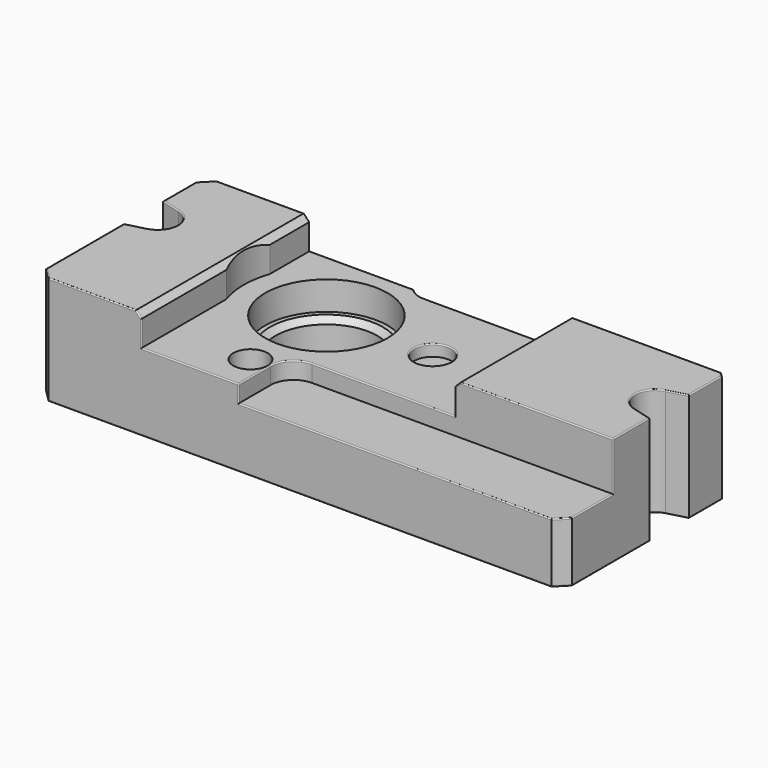
from build123d import *

# Parameters (mm, degrees)
F0_R     = 8.9
F3_DEPTH = 13.5
F0_W     = 27.7
F0_H     = 11
F0_H_2   = 1.2
F4_DEPTH = 10.5
F2_R     = 10.7
F5_DEPTH = 5
F2_R_2   = 3.25
F6_DEPTH = 2
F2_R_3   = 3
F7_DEPTH = 6
F8_DEPTH = 5.5
F9_SIZE  = 1
F10_SIZE = 2
F11_R    = 0.2


with BuildPart() as f3:
    # F0 (on Top) → F3 (new body)
    with BuildSketch(Plane.XY):
        with BuildLine():
            Line((0, 19.0066603875), (0, 0))
            Line((0, 0), (18.3, 0))
            Line((18.3, 0), (18.3, 18.5502631652))
            ThreePointArc((18.3, 18.5502631652), (17.5, 23.3), (18.3, 28.0497368348))
            Line((18.3, 28.0497368348), (18.3, 36.8))
            Line((18.3, 36.8), (0, 36.8))
            Line((0, 36.8), (0, 27.5933396125))
            Line((0, 27.5933396125), (3.4058666579, 26.680740392))
            ThreePointArc((3.4058666579, 26.680740392), (6, 23.3), (3.4058666579, 19.919259608))
            Line((3.4058666579, 19.919259608), (0, 19.0066603875))
        make_face()
        with BuildLine():
            Line((18.3, 18.5502631652), (18.3, 0))
            Line((18.3, 0), (35.3, 0))
            Line((35.3, 0), (35.3, 7))
            ThreePointArc((35.3, 7), (36.4715728753, 9.8284271247), (39.3, 11))
            Line((39.3, 11), (64.3, 11))
            Line((64.3, 11), (64.3, 35.6))
            Line((64.3, 35.6), (39.3, 35.6))
            ThreePointArc((39.3, 35.6), (37.7508066615, 35.9121822171), (36.4434286286, 36.8))
            Line((36.4434286286, 36.8), (18.3, 36.8))
            Line((18.3, 36.8), (18.3, 28.0497368348))
            ThreePointArc((18.3, 28.0497368348), (17.5, 23.3), (18.3, 18.5502631652))
        make_face()
        with Locations((32, 23.3)):
            Circle(F0_R, mode=Mode.SUBTRACT)
        with BuildLine():
            Line((64.3, 35.6), (64.3, 11))
            Line((64.3, 11), (92, 11))
            Line((92, 11), (92, 19.0066603875))
            Line((92, 19.0066603875), (88.5941333421, 19.919259608))
            ThreePointArc((88.5941333421, 19.919259608), (86, 23.3), (88.5941333421, 26.680740392))
            Line((88.5941333421, 26.680740392), (92, 27.5933396125))
            Line((92, 27.5933396125), (92, 35.6))
            Line((92, 35.6), (64.3, 35.6))
        make_face()
    extrude(amount=F3_DEPTH)

    # F0 (on Top) → F4 (join)
    with BuildSketch(Plane.XY):
        with BuildLine():
            Line((35.3, 7), (35.3, 0))
            Line((35.3, 0), (64.3, 0))
            Line((64.3, 0), (64.3, 11))
            Line((64.3, 11), (39.3, 11))
            ThreePointArc((39.3, 11), (36.4715728753, 9.8284271247), (35.3, 7))
        make_face()
        with Locations((78.15, 5.5)):
            Rectangle(F0_W, F0_H)
        with Locations((78.15, 36.2)):
            Rectangle(F0_W, F0_H_2)
        with BuildLine():
            Line((39.3, 35.6), (64.3, 35.6))
            Line((64.3, 35.6), (64.3, 36.8))
            Line((64.3, 36.8), (36.4434286286, 36.8))
            ThreePointArc((36.4434286286, 36.8), (37.7508066615, 35.9121822171), (39.3, 35.6))
        make_face()
    extrude(amount=F4_DEPTH)

    # F2 (on offset) → F5 (cut)
    with BuildSketch(Plane.XY.offset(13.5)):
        with Locations((32, 23.3)):
            Circle(F2_R)
    extrude(amount=-F5_DEPTH, mode=Mode.SUBTRACT)

    # F2 (on offset) → F6 (cut)
    with BuildSketch(Plane.XY.offset(13.5)):
        with Locations((50.6, 23.3)):
            Circle(F2_R_2)
    extrude(amount=-F6_DEPTH, mode=Mode.SUBTRACT)

    # F2 (on offset) → F7 (cut)
    with BuildSketch(Plane.XY.offset(13.5)):
        with Locations((32, 6.7)):
            Circle(F2_R_3)
    extrude(amount=-F7_DEPTH, mode=Mode.SUBTRACT)

    # F2 (on offset) → F8 (join)
    with BuildSketch(Plane.XY.offset(13.5)):
        with BuildLine():
            Line((0, 0), (18.3, 0))
            Line((18.3, 0), (18.3, 18.5502631652))
            ThreePointArc((18.3, 18.5502631652), (17.5, 23.3), (18.3, 28.0497368348))
            Line((18.3, 28.0497368348), (18.3, 36.8))
            Line((18.3, 36.8), (0, 36.8))
            Line((0, 36.8), (0, 27.5933396125))
            Line((0, 27.5933396125), (3.4058666579, 26.680740392))
            ThreePointArc((3.4058666579, 26.680740392), (6, 23.3), (3.4058666579, 19.919259608))
            Line((3.4058666579, 19.919259608), (0, 19.0066603875))
            Line((0, 19.0066603875), (0, 0))
        make_face()
        with BuildLine():
            Line((64.3, 35.6), (64.3, 11))
            Line((64.3, 11), (92, 11))
            Line((92, 11), (92, 19.0066603875))
            Line((92, 19.0066603875), (88.5941333421, 19.919259608))
            ThreePointArc((88.5941333421, 19.919259608), (86, 23.3), (88.5941333421, 26.680740392))
            Line((88.5941333421, 26.680740392), (92, 27.5933396125))
            Line((92, 27.5933396125), (92, 35.6))
            Line((92, 35.6), (64.3, 35.6))
        make_face()
    extrude(amount=F8_DEPTH)

    # F9
    f9_edges = [f3.edges().sort_by_distance(p)[0] for p in [
        (18.3, 9.275132, 19),
        (23.1, 23.3, 8.5),
        (64.3, 23.3, 19),
    ]]
    chamfer(f9_edges, length=F9_SIZE)

    # F10
    f10_edges = [f3.edges().sort_by_distance(p)[0] for p in [
        (92, 0, 5.25),
        (0, 0, 9.5),
        (92, 36.8, 5.25),
        (0, 36.8, 9.5),
    ]]
    chamfer(f10_edges, length=F10_SIZE)

    # F11
    f11_edges = [f3.edges().sort_by_distance(p)[0] for p in [
        (47.35, 23.3, 13.5),
        (35.3, 3.5, 13.5),
        (64.3, 11, 15.75),
        (64.8, 11, 18.5),
        (78.65, 11, 19),
        (92, 11, 14.75),
        (92, 6.5, 10.5),
        (91, 1, 10.5),
        (62.65, 0, 10.5),
        (35.3, 0, 12),
        (26.8, 0, 13.5),
        (18.3, 0, 15.75),
        (17.8, 0, 18.5),
        (9.65, 0, 19),
        (1, 1, 19),
        (0, 10.50333, 19),
        (1.702933, 19.46296, 19),
        (6, 23.3, 19),
        (0, 31.19667, 19),
        (1, 35.8, 19),
        (9.65, 36.8, 19),
        (17.8, 36.8, 18.5),
        (18.3, 36.8, 15.75),
        (27.371714, 36.8, 13.5),
        (92, 15.00333, 19),
        (90.297067, 19.46296, 19),
        (86, 23.3, 19),
        (90.297067, 27.13704, 19),
        (92, 31.19667, 19),
        (91.6, 35.2, 19),
        (78.25, 35.6, 19),
        (64.8, 35.6, 18.5),
        (64.3, 35.6, 15.75),
        (51.8, 35.6, 13.5),
        (37.750807, 35.912182, 13.5),
        (1, 1, 0),
        (46, 0, 0),
        (91, 1, 0),
        (92, 10.50333, 0),
        (90.297067, 19.46296, 0),
        (86, 23.3, 0),
        (92, 31.19667, 0),
        (91, 35.8, 0),
        (0, 10.50333, 0),
        (1.702933, 19.46296, 0),
        (6, 23.3, 0),
        (1.702933, 27.13704, 0),
        (0, 31.19667, 0),
        (1, 35.8, 0),
        (46, 36.8, 0),
    ]]
    fillet(f11_edges, radius=F11_R)


solid = f3.part
